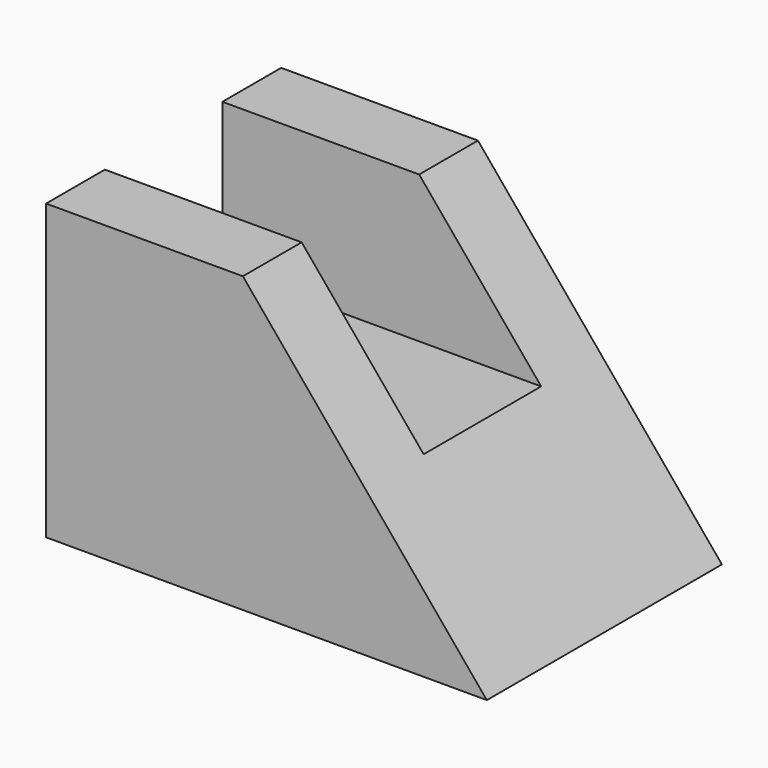
from build123d import *

# Parameters (mm, degrees)
F0_W     = 38.1
F0_H     = 25.4
F1_DEPTH = 12.7
F3_DEPTH = 12.7
F4_W     = 12.7
F4_H     = 12.7
F5_DEPTH = 50.8


with BuildPart() as f1:
    # F0 (on Front) → F1 (new body, symmetric)
    with BuildSketch(Plane.XZ):
        with Locations((19.05, 12.7)):
            Rectangle(F0_W, F0_H)
    extrude(amount=F1_DEPTH, both=True)

    # F2 (on Front) → F3 (cut, symmetric)
    with BuildSketch(Plane.XZ):
        Polygon((38.1, 25.4), (17.01173, 25.4), (38.1, 0), align=None)
    extrude(amount=F3_DEPTH, both=True, mode=Mode.SUBTRACT)

    # F4 (on Right) → F5 (cut)
    with BuildSketch(Plane.YZ):
        with Locations((0, 19.05)):
            Rectangle(F4_W, F4_H)
    extrude(amount=F5_DEPTH, mode=Mode.SUBTRACT)


solid = f1.part
